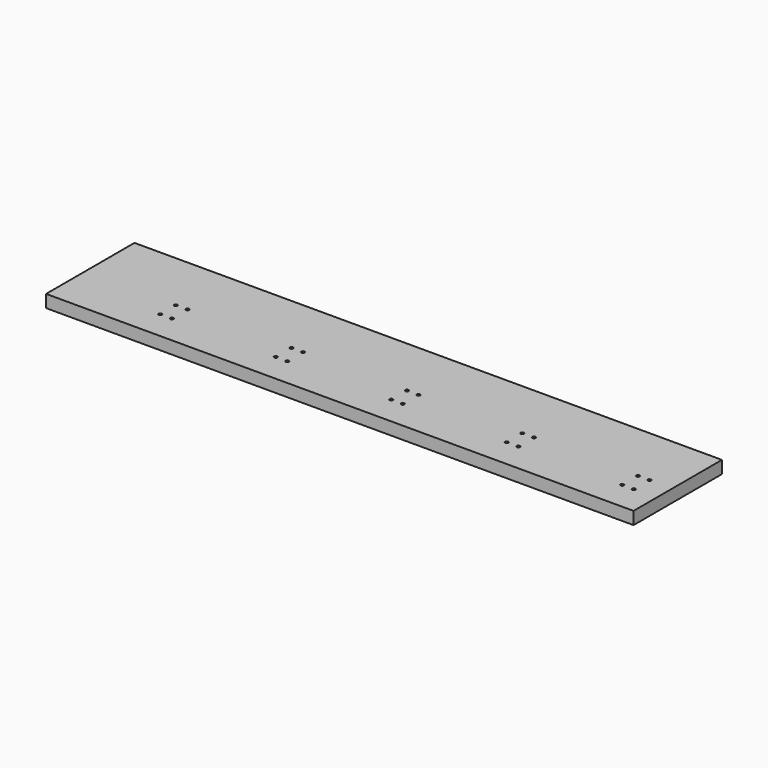
from build123d import *

# Parameters (mm, degrees)
F0_W     = 585
F0_H     = 110
F1_DEPTH = 12.5
F3_D     = 3.2


with BuildPart() as f1:
    # F0 (on Top) → F1 (new body)
    with BuildSketch(Plane.XY):
        with Locations((292.5, -55)):
            Rectangle(F0_W, F0_H)
    extrude(amount=F1_DEPTH)

    # F3 (through all)
    with Locations(Plane.XY.offset(12.5)):
        with Locations((90.8, -81.3431097357), (90.8, -61.8431097357), (102.3, -61.8431097357), (102.3, -81.3431097357), (205.8, -61.8431097357), (217.3, -61.8431097357), (205.8, -81.3431097357), (217.3, -81.3431097357), (320.8, -61.8431097357), (320.8, -81.3431097357), (332.3, -61.8431097357), (332.3, -81.3431097357), (435.8, -61.8431097357), (447.3, -61.8431097357), (435.8, -81.3431097357), (447.3, -81.3431097357), (550.8, -61.8431097357), (562.3, -61.8431097357), (562.3, -81.3431097357), (550.8, -81.3431097357)):
            Hole(F3_D / 2)


solid = f1.part
